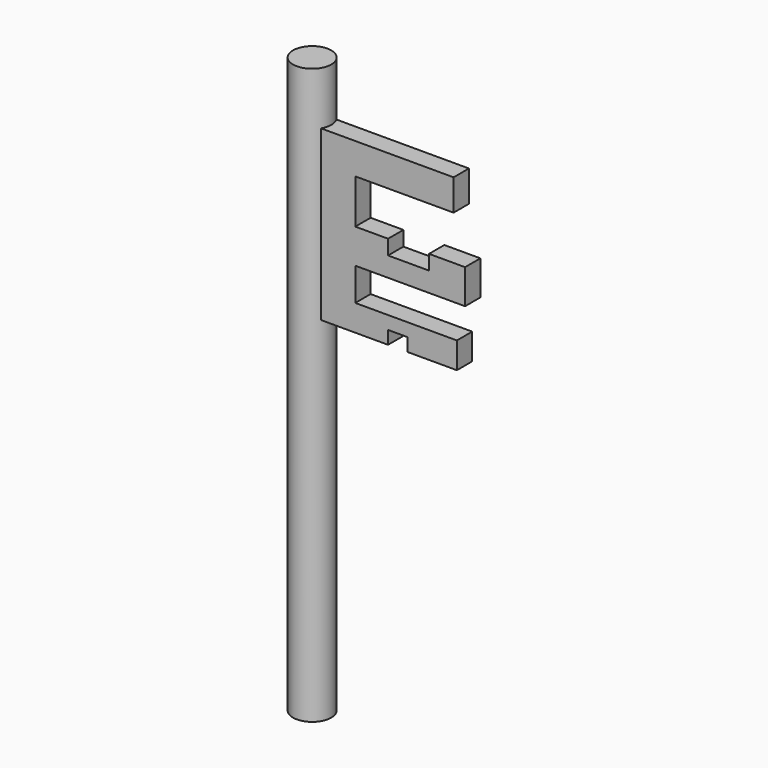
from build123d import *

# Parameters (mm, degrees)
F0_R     = 2.54
F1_DEPTH = 76.2
F3_DEPTH = 1.27
F4_DEPTH = 1.27


with BuildPart() as f1:
    # F0 (on Top) → F1 (new body)
    with BuildSketch(Plane.XY):
        Circle(F0_R)
    extrude(amount=F1_DEPTH)

    # F2 (on Front) → F3 (join)
    with BuildSketch(Plane.XZ):
        Polygon((19.7582356632, 69.153830409), (0, 69.153830409), (0, 46.79011181), (11.0732968897, 46.79011181), (11.0732968897, 48.5270991921), (13.6787788942, 48.5270991921), (13.6787788942, 46.79011181), (20.19248344, 46.79011181), (20.19248344, 50.2640865743), (6.7308279686, 50.2640865743), (6.7308279686, 54.6065531671), (21.2781019509, 54.6065531671), (21.2781019509, 59.1661445796), (16.5013838559, 59.1661445796), (16.5013838559, 57.212036103), (11.0732968897, 57.212036103), (11.0732968897, 59.1661445796), (6.7308279686, 59.1661445796), (6.7308279686, 65.0284811854), (19.7582356632, 65.0284811854), align=None)
    extrude(amount=F3_DEPTH)

    # F2 (on Front) → F4 (join)
    with BuildSketch(Plane.XZ):
        Polygon((19.7582356632, 69.153830409), (0, 69.153830409), (0, 46.79011181), (11.0732968897, 46.79011181), (11.0732968897, 48.5270991921), (13.6787788942, 48.5270991921), (13.6787788942, 46.79011181), (20.19248344, 46.79011181), (20.19248344, 50.2640865743), (6.7308279686, 50.2640865743), (6.7308279686, 54.6065531671), (21.2781019509, 54.6065531671), (21.2781019509, 59.1661445796), (16.5013838559, 59.1661445796), (16.5013838559, 57.212036103), (11.0732968897, 57.212036103), (11.0732968897, 59.1661445796), (6.7308279686, 59.1661445796), (6.7308279686, 65.0284811854), (19.7582356632, 65.0284811854), align=None)
    extrude(amount=-F4_DEPTH)


solid = f1.part
